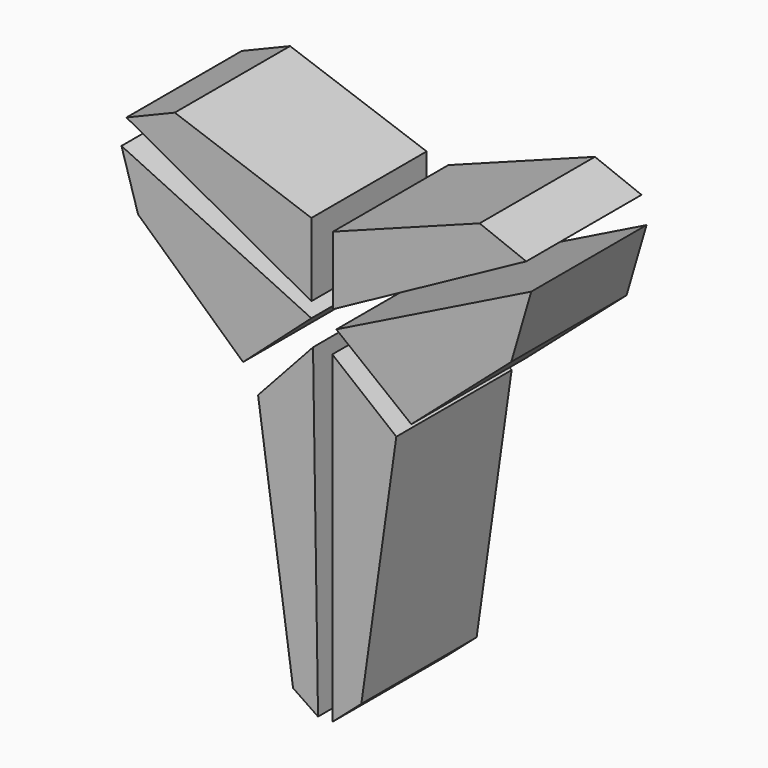
from build123d import *

# Parameters (mm, degrees)
F1_DEPTH = 25.4


with BuildPart() as f1:
    # F0 (on Front) → F1 (new body)
    with BuildSketch(Plane.XZ):
        Polygon((-14.680735, 34.79334), (-23.195559, 31.269964), (9.395669, 13.359467), (9.395669, 26.278514), align=None)
        Polygon((39.050754, 35.086956), (13.212659, 25.39767), (13.212659, 13.359467), (47.271963, 31.857193), align=None)
        Polygon((9.395669, 10.716937), (-24.076404, 26.572127), (-21.140257, 16.882844), (-2.642533, 0), align=None)
        Polygon((44.629432, 15.414772), (48.152808, 27.452972), (13.799889, 10.423321), (27.012549, 0), align=None)
        Polygon((18.204112, -46.244312), (24.370018, -2.789339), (13.090537, 6.312716), (13.090537, -50.71869), align=None)
        Polygon((10.570128, -50.71869), (9.689284, 6.312716), (0, -4.257413), (6.165908, -47.712386), align=None)
    extrude(amount=F1_DEPTH)


solid = f1.part
